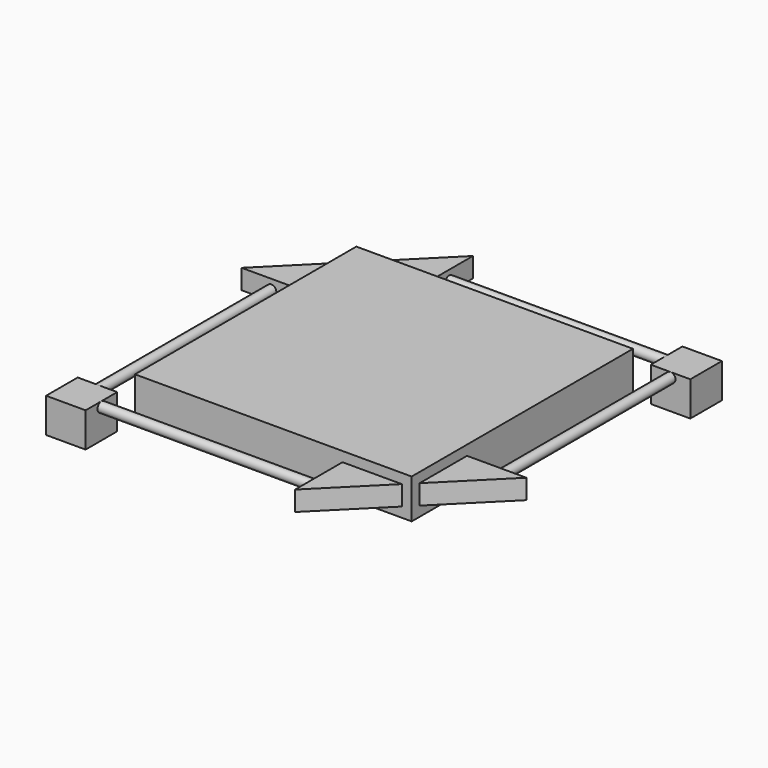
from build123d import *

# Parameters (mm, degrees)
F0_W          = 7000
F0_H          = 7000
F1_DEPTH      = 1000
F4_DEPTH      = 250
F5_DEPTH      = 750
F5_DEPTH_BACK = 125
F6_R          = 125
F7_DEPTH      = 5500
F8_R          = 125
F9_DEPTH      = 5500
F12_COUNT     = 2


with BuildPart() as f1:
    # F0 (on Top) → F1 (new body)
    with BuildSketch(Plane.XY):
        Rectangle(F0_W, F0_H)
    extrude(amount=F1_DEPTH)

    # F3 (on offset) → F4 (join, symmetric)
    with BuildSketch(Plane.XY.offset(500)):
        Polygon((-4250, 1750), (-3500, 1750), (-3500, 3250), (-5000, 1750), align=None)
        Polygon((-3250, 3500), (-1750, 3500), (-1750, 4250), (-1750, 5000), align=None)
    extrude(amount=F4_DEPTH, both=True)



with BuildPart() as f5:
    # F3 (on offset) → F5 (new body, two sides)
    with BuildSketch(Plane.XY.offset(500)) as f5_sk:
        Polygon((-3750, -3750), (-4250, -3750), (-4750, -3750), (-4750, -4750), (-3750, -4750), align=None)
    extrude(amount=-F5_DEPTH)
    extrude(f5_sk.sketch, amount=F5_DEPTH_BACK)


with BuildPart() as f5b:
    # F3 (on offset) → F5, piece 2 (new body, two sides)
    with BuildSketch(Plane.XY.offset(500)) as f5_2_sk:
        Polygon((3750, 4750), (3750, 4250), (3750, 3750), (4750, 3750), (4750, 4750), align=None)
    extrude(amount=-F5_DEPTH)
    extrude(f5_2_sk.sketch, amount=F5_DEPTH_BACK)


with BuildPart() as f1_1:
    add(f1.part)

    add(f5.part)  # F7 merges F5
    # F6 (on face) → F7 (join, through all)
    with BuildSketch(Plane.XZ.offset(-1750)):
        with Locations((-4250, 500)):
            Circle(F6_R)
    extrude(amount=F7_DEPTH)


    add(f5b.part)  # F9 merges F5b
    # F8 (on face) → F9 (join, through all)
    with BuildSketch(Plane.YZ.offset(-1750)):
        with Locations((4250, 500)):
            Circle(F8_R)
    extrude(amount=F9_DEPTH)

    # F12: F1 ×2 about axis
    f12_axis = Axis((0, 0, 500), (0, 0, 1))


with BuildPart() as f1_2:
    add(f1_1.part)
    for i in range(1, F12_COUNT):
        add(f1_1.part.rotate(f12_axis, i * 360 / F12_COUNT))


solid = f1_2.part
